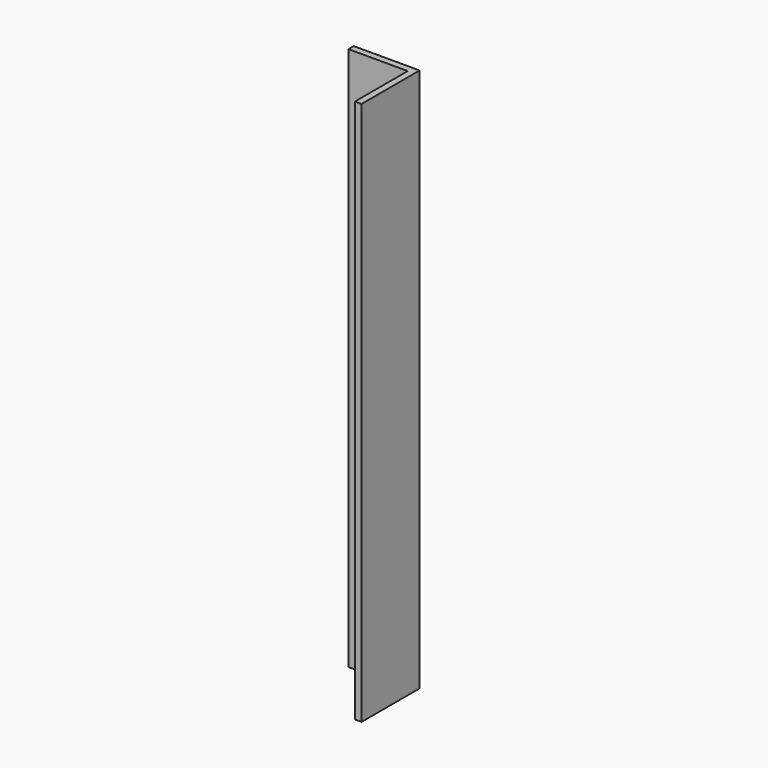
from build123d import *

# Parameters (mm, degrees)
F0_W     = 27.94
F0_H     = 209.55
F1_DEPTH = 2.54
F2_W     = 2.54
F2_H     = 209.55
F3_DEPTH = 22.86


with BuildPart() as f1:
    # F0 (on Right) → F1 (new body)
    with BuildSketch(Plane.YZ):
        with Locations((17.732705, -39.445769)):
            Rectangle(F0_W, F0_H)
    extrude(amount=-F1_DEPTH)

    # F2 (on face) → F3 (join)
    with BuildSketch(Plane(origin=(-2.54, 0, 0), x_dir=(0, -1, 0), z_dir=(-1, 0, 0))):
        with Locations((-30.432705, -39.445769)):
            Rectangle(F2_W, F2_H)
    extrude(amount=F3_DEPTH)


solid = f1.part
